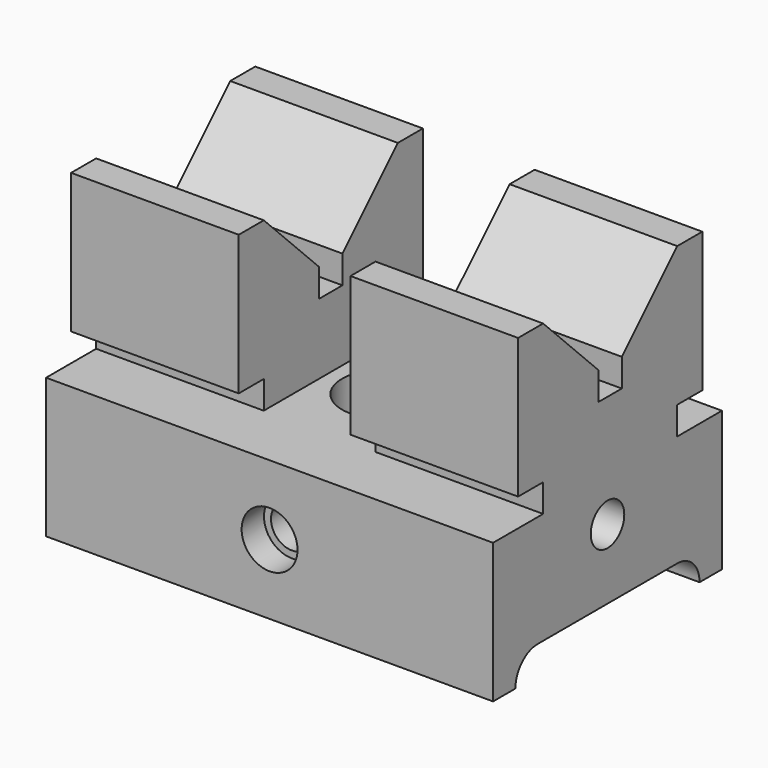
from build123d import *

# Parameters (mm, degrees)
F0_W            = 101.6
F0_H            = 65.024
F0_R            = 9.525
F1_DEPTH        = 31.75
F3_DEPTH        = 101.601
F5_START        = -63.5
F5_DEPTH        = 38.1
F6_DEPTH        = 38.1
F7_R            = 4.7625
F8_DEPTH        = 15.875
F9_R            = 4.7625
F10_DEPTH       = 15.875
F12_D           = 9.525
F12_CBORE_D     = 12.7
F12_CBORE_DEPTH = 6.35


with BuildPart() as f1:
    # F0 (on Top) → F1 (new body)
    with BuildSketch(Plane.XY):
        Rectangle(F0_W, F0_H)
        Circle(F0_R, mode=Mode.SUBTRACT)
    extrude(amount=F1_DEPTH)

    # F2 (on face) → F3 (cut, through all)
    with BuildSketch(Plane.YZ.offset(50.8)):
        with BuildLine():
            Line((19.812, 6.35), (-19.812, 6.35))
            ThreePointArc((-19.812, 6.35), (-24.3021280605, 4.4901280605), (-26.162, 0))
            Line((-26.162, 0), (26.162, 0))
            ThreePointArc((26.162, 0), (24.3021280605, 4.4901280605), (19.812, 6.35))
        make_face()
    extrude(amount=-F3_DEPTH, mode=Mode.SUBTRACT)

    # F4 (on face) → F5 (join)
    with BuildSketch(Plane.YZ.offset(50.8).offset(F5_START)):
        Polygon((-18.288, 38.1), (-18.288, 31.75), (19.812, 31.75), (19.812, 38.1), (26.924, 38.1), (26.924, 69.85), (19.812, 69.85), (4.064, 54.102), (4.064, 47.752), (-2.54, 47.752), (-2.54, 54.102), (-18.288, 69.85), (-25.4, 69.85), (-25.4, 38.1), align=None)
    extrude(amount=-F5_DEPTH)

    # F4 (on face) → F6 (join)
    with BuildSketch(Plane.YZ.offset(50.8)):
        Polygon((-18.288, 38.1), (-18.288, 31.75), (19.812, 31.75), (19.812, 38.1), (26.924, 38.1), (26.924, 69.85), (19.812, 69.85), (4.064, 54.102), (4.064, 47.752), (-2.54, 47.752), (-2.54, 54.102), (-18.288, 69.85), (-25.4, 69.85), (-25.4, 38.1), align=None)
    extrude(amount=-F6_DEPTH)

    # F7 (on face) → F8 (cut)
    with BuildSketch(Plane.YZ.offset(50.8)):
        with Locations((0, 22.225)):
            Circle(F7_R)
    extrude(amount=-F8_DEPTH, mode=Mode.SUBTRACT)

    # F9 (on face) → F10 (cut)
    with BuildSketch(Plane(origin=(-50.8, 0, 0), x_dir=(0, -1, 0), z_dir=(-1, 0, 0))):
        with Locations((0, 22.225)):
            Circle(F9_R)
    extrude(amount=-F10_DEPTH, mode=Mode.SUBTRACT)

    # F12 (through all)
    with Locations(Plane.XZ.offset(32.512)):
        with Locations((0, 15.875)):
            CounterBoreHole(F12_D / 2, F12_CBORE_D / 2, F12_CBORE_DEPTH)


solid = f1.part
